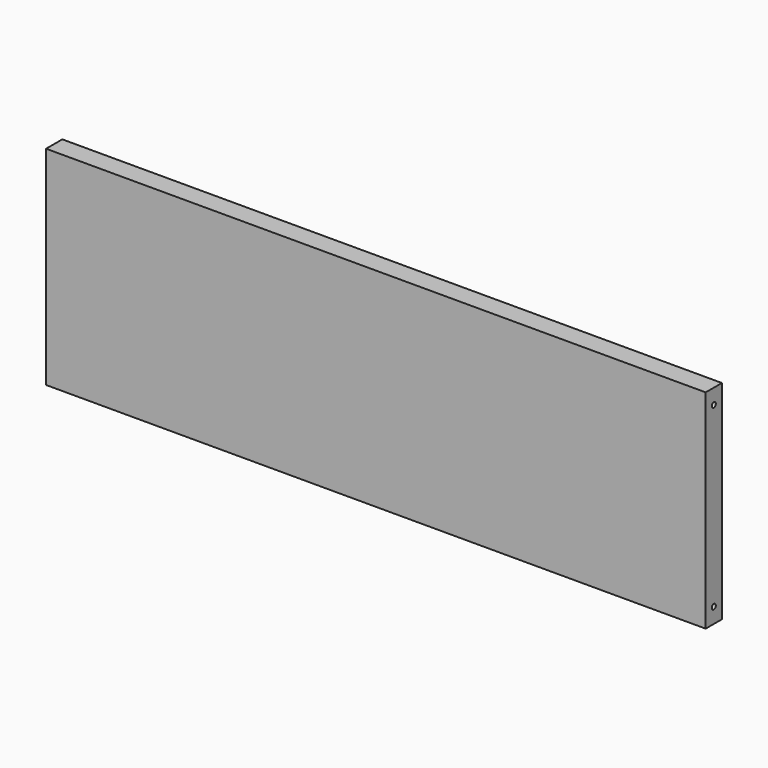
from build123d import *

# Parameters (mm, degrees)
F0_W     = 650
F0_H     = 205
F1_DEPTH = 20
F3_D     = 5
F3_DEPTH = 20
F3_TIP   = 1.5021515476
F5_D     = 5
F5_DEPTH = 20
F5_TIP   = 1.5021515476


with BuildPart() as f1:
    # F0 (on Front) → F1 (new body)
    with BuildSketch(Plane.XZ):
        Rectangle(F0_W, F0_H)
    extrude(amount=F1_DEPTH)

    # F3
    with Locations(Plane.YZ.offset(325)):
        with Locations((-10, 87.5), (-10, -87.5)):
            Hole(F3_D / 2, depth=F3_DEPTH)
            with Locations((0, 0, -(F3_DEPTH + F3_TIP / 2))):  # 118° drill point
                Cone(0, F3_D / 2, F3_TIP, mode=Mode.SUBTRACT)

    # F5
    with Locations(Plane(origin=(-325, 0, 0), x_dir=(0, -1, 0), z_dir=(-1, 0, 0))):
        with Locations((10, 87.5), (10, -87.5)):
            Hole(F5_D / 2, depth=F5_DEPTH)
            with Locations((0, 0, -(F5_DEPTH + F5_TIP / 2))):  # 118° drill point
                Cone(0, F5_D / 2, F5_TIP, mode=Mode.SUBTRACT)


solid = f1.part
